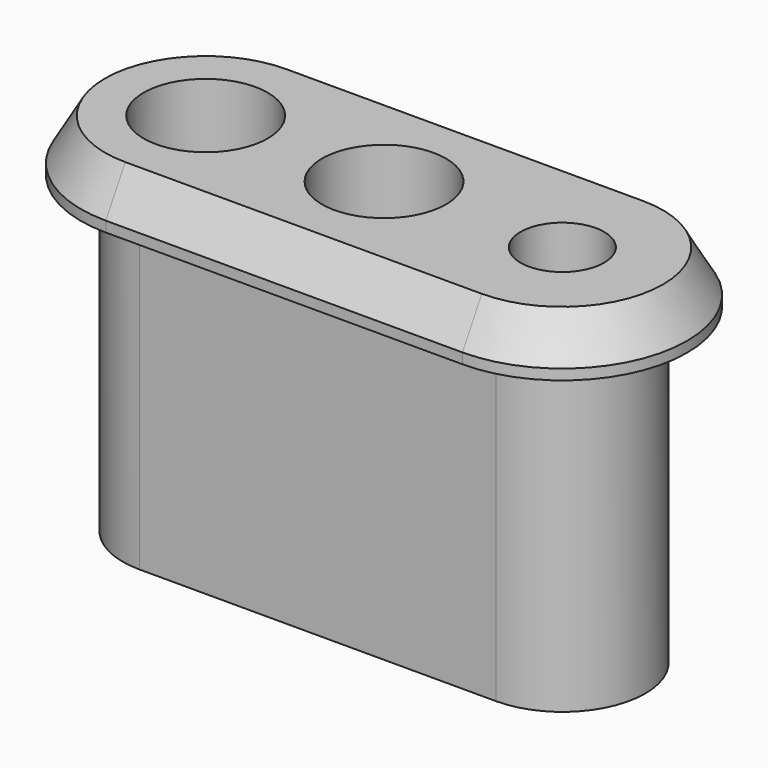
from build123d import *

# Parameters (mm, degrees)
F0_R     = 5.9375
F0_R_2   = 5.9375000447
F0_R_3   = 4
F1_DEPTH = 30
F2_R     = 5.9375
F2_R_2   = 5.9375000447
F2_R_3   = 4
F3_DEPTH = 5
F4_SIZE2 = 4
F4_SIZE  = 2.3094010768


with BuildPart() as f1:
    # F0 (on Top) → F1 (new body)
    with BuildSketch(Plane.XY):
        with BuildLine():
            Line((-17.0625, -7.9375), (0, -7.9375))
            Line((0, -7.9375), (17.0625, -7.9375))
            ThreePointArc((17.0625, -7.9375), (25, 0), (17.0625, 7.9375))
            Line((17.0625, 7.9375), (0, 7.9375))
            Line((0, 7.9375), (-17.0625, 7.9375))
            ThreePointArc((-17.0625, 7.9375), (-25, 0), (-17.0625, -7.9375))
        make_face()
        with Locations((-17.0625, 0)):
            Circle(F0_R, mode=Mode.SUBTRACT)
        Circle(F0_R_2, mode=Mode.SUBTRACT)
        with Locations((17.0625, 0)):
            Circle(F0_R_3, mode=Mode.SUBTRACT)
    extrude(amount=F1_DEPTH)

    # F2 (on face) → F3 (join)
    with BuildSketch(Plane.XY.offset(30)):
        with BuildLine():
            ThreePointArc((17.0625, -11.9374991655), (28.9999991655, 0), (17.0625, 11.9374991655))
            Line((17.0625, 11.9374991655), (-17.0625, 11.9374991655))
            ThreePointArc((-17.0625, 11.9374991655), (-28.9999991655, 0), (-17.0625, -11.9374991655))
            Line((-17.0625, -11.9374991655), (17.0625, -11.9374991655))
        make_face()
        with BuildLine():
            ThreePointArc((-17.0625, -7.9375), (-25, 0), (-17.0625, 7.9375))
            Line((-17.0625, 7.9375), (17.0625, 7.9375))
            ThreePointArc((17.0625, 7.9375), (25, 0), (17.0625, -7.9375))
            Line((17.0625, -7.9375), (-17.0625, -7.9375))
        make_face(mode=Mode.SUBTRACT)
        with BuildLine():
            Line((17.0625, 7.9375), (-17.0625, 7.9375))
            ThreePointArc((-17.0625, 7.9375), (-25, 0), (-17.0625, -7.9375))
            Line((-17.0625, -7.9375), (17.0625, -7.9375))
            ThreePointArc((17.0625, -7.9375), (25, 0), (17.0625, 7.9375))
        make_face()
        with Locations((-17.0625, 0)):
            Circle(F2_R, mode=Mode.SUBTRACT)
        Circle(F2_R_2, mode=Mode.SUBTRACT)
        with Locations((17.0625, 0)):
            Circle(F2_R_3, mode=Mode.SUBTRACT)
    extrude(amount=F3_DEPTH)

    # F4
    f4_edges = [f1.edges().sort_by_distance(p)[0] for p in [
        (0, -11.937499, 35),
        (-28.999999, 0, 35),
        (0, 11.937499, 35),
        (28.999999, 0, 35),
    ]]
    f4_side = f1.faces().sort_by_distance((0, 11.310282, 35))[0]
    chamfer(f4_edges, length=F4_SIZE, length2=F4_SIZE2, reference=f4_side)


solid = f1.part
